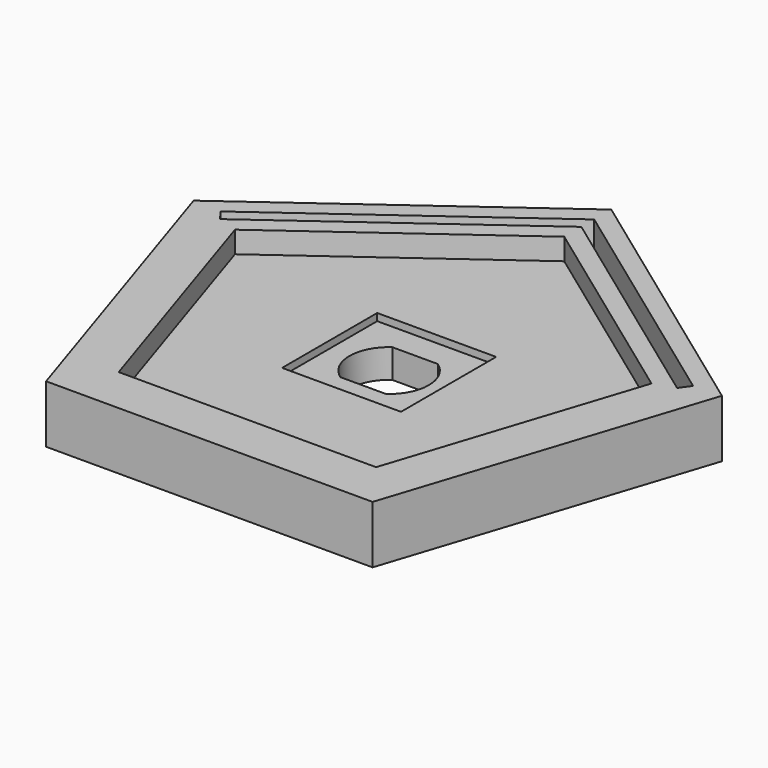
from build123d import *

# Parameters (mm, degrees)
PAD_DEPTH       = 8
POCKET_DEPTH    = 4
POCKET001_DEPTH = 3
POCKET002_DEPTH = 5
SKETCH004_W     = 16.5
SKETCH004_H     = 16.5
POCKET003_DEPTH = 1


with BuildPart() as part:
    # Sketch → Pad (new body)
    with BuildSketch(Plane.XY):
        Polygon((0, 38.536997), (-36.650862, 11.908587), (-22.651479, -31.177086), (22.651479, -31.177086), (36.650862, 11.908587), align=None)
    extrude(amount=PAD_DEPTH)

    # Sketch001 (on Face7 of Pad) → Pocket (cut)
    with BuildSketch(Plane.XY.offset(8)):
        Polygon((-32.77148, 11.76056), (0, 35.570434), (32.77148, 11.76056), (31.713466, 10.30433), (0, 33.345512), (-31.713466, 10.30433), align=None)
    extrude(amount=-POCKET_DEPTH, mode=Mode.SUBTRACT)

    # Sketch002 (on Face5 of Pocket) → Pocket001 (cut)
    with BuildSketch(Plane.XY.offset(8)):
        Polygon((0, 30.378949), (-28.892097, 9.387611), (-17.856298, -24.577086), (17.856298, -24.577086), (28.892097, 9.387611), align=None)
    extrude(amount=-POCKET001_DEPTH, mode=Mode.SUBTRACT)

    # Sketch003 (on Face20 of Pocket001) → Pocket002 (cut)
    with BuildSketch(Plane.XY.offset(5)):
        with BuildLine():
            ThreePointArc((-3.162278, 4.5), (-5.5, 0), (-3.162278, -4.5))
            Line((3.162278, -4.5), (-3.162278, -4.5))
            ThreePointArc((3.162278, -4.5), (5.5, 0), (3.162278, 4.5))
            Line((-3.162278, 4.5), (3.162278, 4.5))
        make_face()
    extrude(amount=-POCKET002_DEPTH, mode=Mode.SUBTRACT)

    # Sketch004 (on Face23 of Pocket002) → Pocket003 (cut)
    with BuildSketch(Plane.XY.offset(5)):
        Rectangle(SKETCH004_W, SKETCH004_H)
    extrude(amount=-POCKET003_DEPTH, mode=Mode.SUBTRACT)


solid = part.part
